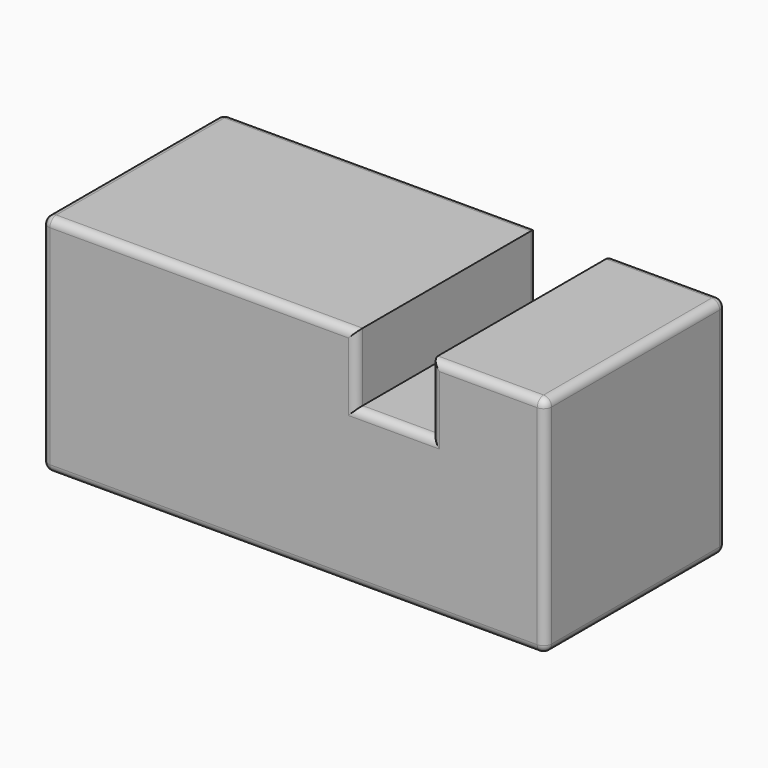
from build123d import *

# Parameters (mm, degrees)
F0_W     = 26.1790351942
F0_H     = 15.7074220479
F0_H_2   = 36.0050015152
F0_W_2   = 25.6373991724
F1_DEPTH = 52.07
F2_R     = 1.8396307345


with BuildPart() as f1:
    # F0 (on Front) → F1 (new body)
    with BuildSketch(Plane.XZ):
        with Locations((27.227526065, 43.8587125391)):
            Rectangle(F0_W, F0_H)
        with Locations((27.227526065, 18.0025007576)):
            Rectangle(F0_W, F0_H_2)
        Polygon((-28.8317184895, 36.0050015152), (-28.8317184895, 0), (14.1380084679, 0), (14.1380084679, 36.0050015152), (-3.1943193171, 36.0050015152), align=None)
        with Locations((-16.0130189033, 43.8587125391)):
            Rectangle(F0_W_2, F0_H)
        Polygon((-75.5928903818, 51.712423563), (-75.5928903818, 0), (-28.8317184895, 0), (-28.8317184895, 36.0050015152), (-28.8317184895, 51.712423563), align=None)
    extrude(amount=F1_DEPTH)

    # F2
    f2_edges = [f1.edges().sort_by_distance(p)[0] for p in [
        (14.138008, 0, 43.858713),
        (5.471845, 0, 36.005002),
        (-3.194319, 0, 43.858713),
        (-39.393605, 0, 51.712424),
        (-75.59289, 0, 25.856212),
        (-17.637923, 0, 0),
        (40.317044, 0, 25.856212),
        (27.227526, 0, 51.712424),
        (14.138008, -52.07, 43.858713),
        (5.471845, -52.07, 36.005002),
        (-3.194319, -52.07, 43.858713),
        (-39.393605, -52.07, 51.712424),
        (-75.59289, -52.07, 25.856212),
        (-17.637923, -52.07, 0),
        (40.317044, -52.07, 25.856212),
        (27.227526, -52.07, 51.712424),
        (40.317044, -26.035, 0),
        (40.317044, -26.035, 51.712424),
        (-75.59289, -26.035, 51.712424),
        (-75.59289, -26.035, 0),
    ]]
    fillet(f2_edges, radius=F2_R)


solid = f1.part
